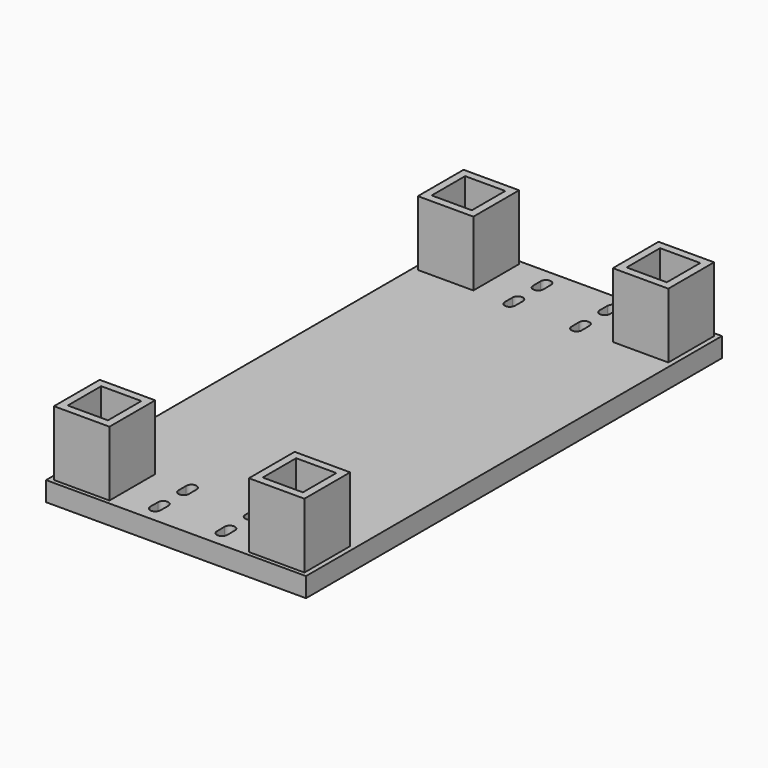
from build123d import *

# Parameters (mm, degrees)
F0_W     = 101.6
F0_H     = 203.2
F1_DEPTH = 7.62
F3_DEPTH = 25.4
F4_W     = 21.7
F4_H     = 22.33677
F4_W_2   = 15.7
F4_H_2   = 16.33677
F5_DEPTH = 25.4


with BuildPart() as f1:
    # F0 (on Top) → F1 (new body)
    with BuildSketch(Plane.XY):
        Rectangle(F0_W, F0_H)
    extrude(amount=F1_DEPTH)

    # F2 (on Top) → F3 (cut)
    with BuildSketch(Plane.XY):
        with BuildLine():
            Line((-15.035691, -77.822713), (-14.988321, -81.421245))
            ThreePointArc((-14.988321, -81.421245), (-13.081192, -83.592345), (-11.008666, -81.578528))
            Line((-11.008666, -81.578528), (-11.048887, -77.843856))
            ThreePointArc((-11.048887, -77.843856), (-13.031485, -75.796128), (-15.035691, -77.822713))
        make_face()
        with BuildLine():
            ThreePointArc((-15.035691, -95.377287), (-13.031485, -97.403872), (-11.048887, -95.356144))
            Line((-11.048887, -95.356144), (-11.008666, -91.621472))
            ThreePointArc((-11.008666, -91.621472), (-13.081192, -89.607655), (-14.988321, -91.778755))
            Line((-14.988321, -91.778755), (-15.035691, -95.377287))
        make_face()
        with BuildLine():
            ThreePointArc((15.035691, -77.822713), (13.031485, -75.796128), (11.048887, -77.843856))
            Line((11.048887, -77.843856), (11.008666, -81.578528))
            ThreePointArc((11.008666, -81.578528), (13.081192, -83.592345), (14.988321, -81.421245))
            Line((14.988321, -81.421245), (15.035691, -77.822713))
        make_face()
        with BuildLine():
            Line((11.008666, -91.621472), (11.048887, -95.356144))
            ThreePointArc((11.048887, -95.356144), (13.031485, -97.403872), (15.035691, -95.377287))
            Line((15.035691, -95.377287), (14.988321, -91.778755))
            ThreePointArc((14.988321, -91.778755), (13.081192, -89.607655), (11.008666, -91.621472))
        make_face()
        with BuildLine():
            ThreePointArc((15.035691, 95.377287), (13.031485, 97.403872), (11.048887, 95.356144))
            Line((11.048887, 95.356144), (11.008666, 91.621472))
            ThreePointArc((11.008666, 91.621472), (13.081192, 89.607655), (14.988321, 91.778755))
            Line((14.988321, 91.778755), (15.035691, 95.377287))
        make_face()
        with BuildLine():
            Line((-11.008666, 91.621472), (-11.048887, 95.356144))
            ThreePointArc((-11.048887, 95.356144), (-13.031485, 97.403872), (-15.035691, 95.377287))
            Line((-15.035691, 95.377287), (-14.988321, 91.778755))
            ThreePointArc((-14.988321, 91.778755), (-13.081192, 89.607655), (-11.008666, 91.621472))
        make_face()
        with BuildLine():
            ThreePointArc((-15.035691, 77.822713), (-13.031485, 75.796128), (-11.048887, 77.843856))
            Line((-11.048887, 77.843856), (-11.008666, 81.578528))
            ThreePointArc((-11.008666, 81.578528), (-13.081192, 83.592345), (-14.988321, 81.421245))
            Line((-14.988321, 81.421245), (-15.035691, 77.822713))
        make_face()
        with BuildLine():
            ThreePointArc((11.048887, 77.843856), (13.031485, 75.796128), (15.035691, 77.822713))
            Line((15.035691, 77.822713), (14.988321, 81.421245))
            ThreePointArc((14.988321, 81.421245), (13.081192, 83.592345), (11.008666, 81.578528))
            Line((11.008666, 81.578528), (11.048887, 77.843856))
        make_face()
    extrude(amount=F3_DEPTH, mode=Mode.SUBTRACT)

    # F4 (on face) → F5 (join)
    with BuildSketch(Plane.XY.offset(7.62)):
        with Locations((38.1, 88.9)):
            Rectangle(F4_W, F4_H)
        with Locations((38.1, 88.9)):
            Rectangle(F4_W_2, F4_H_2, mode=Mode.SUBTRACT)
        with Locations((38.1, -88.9)):
            Rectangle(F4_W, F4_H)
        with Locations((38.1, -88.9)):
            Rectangle(F4_W_2, F4_H_2, mode=Mode.SUBTRACT)
        with Locations((-38.1, 88.9)):
            Rectangle(F4_W, F4_H)
        with Locations((-38.1, 88.9)):
            Rectangle(F4_W_2, F4_H_2, mode=Mode.SUBTRACT)
        with Locations((-38.1, -88.9)):
            Rectangle(F4_W, F4_H)
        with Locations((-38.1, -88.9)):
            Rectangle(F4_W_2, F4_H_2, mode=Mode.SUBTRACT)
    extrude(amount=F5_DEPTH)


solid = f1.part
